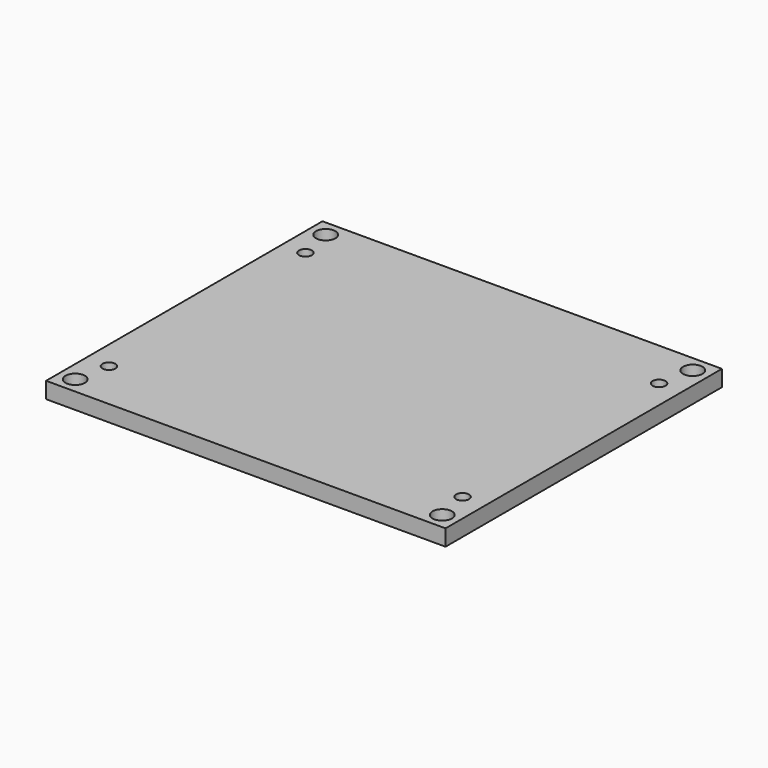
from build123d import *

# Parameters (mm, degrees)
CYLINDER009_R     = 1.8
CYLINDER009_DEPTH = 20
ARRAY005_X_COUNT  = 2
ARRAY005_X_PITCH  = 68
ARRAY005_Y_COUNT  = 2
ARRAY005_Y_PITCH  = 58
CYLINDER005_R     = 1.2
CYLINDER005_DEPTH = 10
ARRAY003_X_COUNT  = 2
ARRAY003_X_PITCH  = 65.5
ARRAY003_Y_COUNT  = 2
ARRAY003_Y_PITCH  = 45.5
BOX006_W          = 74
BOX006_H          = 64
BOX006_DEPTH      = 3


with BuildPart() as wall_box_hole_stand_array001:
    # Cylinder009 → Cylinder009 (new body)
    with BuildSketch(Plane(origin=(3, 3, 0), x_dir=(1, 0, 0), z_dir=(0, 0, 1))):
        Circle(CYLINDER009_R)
    extrude(amount=CYLINDER009_DEPTH)

    # Array005 X: wall box hole stand array001 ×2


with BuildPart() as wall_box_hole_stand_array001_1:
    add(wall_box_hole_stand_array001.part)
    with Locations(*[(i * ARRAY005_X_PITCH, 0, 0) for i in range(1, ARRAY005_X_COUNT)]):
        add(wall_box_hole_stand_array001.part)

    # Array005 Y: wall box hole stand array001 ×2


with BuildPart() as wall_box_hole_stand_array001_2:
    add(wall_box_hole_stand_array001_1.part)
    with Locations(*[(0, i * ARRAY005_Y_PITCH, 0) for i in range(1, ARRAY005_Y_COUNT)]):
        add(wall_box_hole_stand_array001_1.part)


with BuildPart() as bottom_plate_hole_fusion:
    # Cylinder005 → Cylinder005 (new body)
    with BuildSketch(Plane.XY):
        Circle(CYLINDER005_R)
    extrude(amount=CYLINDER005_DEPTH)

    # Array003 X: bottom plate hole fusion ×2


with BuildPart() as bottom_plate_hole_fusion_1:
    add(bottom_plate_hole_fusion.part)
    with Locations(*[(i * ARRAY003_X_PITCH, 0, 0) for i in range(1, ARRAY003_X_COUNT)]):
        add(bottom_plate_hole_fusion.part)

    # Array003 Y: bottom plate hole fusion ×2


with BuildPart() as bottom_plate_hole_fusion_2:
    add(bottom_plate_hole_fusion_1.part)
    with Locations(*[(0, i * ARRAY003_Y_PITCH, 0) for i in range(1, ARRAY003_Y_COUNT)]):
        add(bottom_plate_hole_fusion_1.part)


with BuildPart() as bottom_plate_hole_fusion_3:
    # Array003 placement: moved
    add(bottom_plate_hole_fusion_2.part.moved(Location((4.25, 9.25, -3))))

    # Fusion004: union wall box hole stand array001
    add(wall_box_hole_stand_array001_2.part)


with BuildPart() as bottom_plate_cut:
    # Box006 → Box006 (new body)
    with BuildSketch(Plane.XY):
        with Locations((37, 32)):
            Rectangle(BOX006_W, BOX006_H)
    extrude(amount=BOX006_DEPTH)

    # Cut003: cut bottom plate hole fusion
    add(bottom_plate_hole_fusion_3.part, mode=Mode.SUBTRACT)


solid = bottom_plate_cut.part
